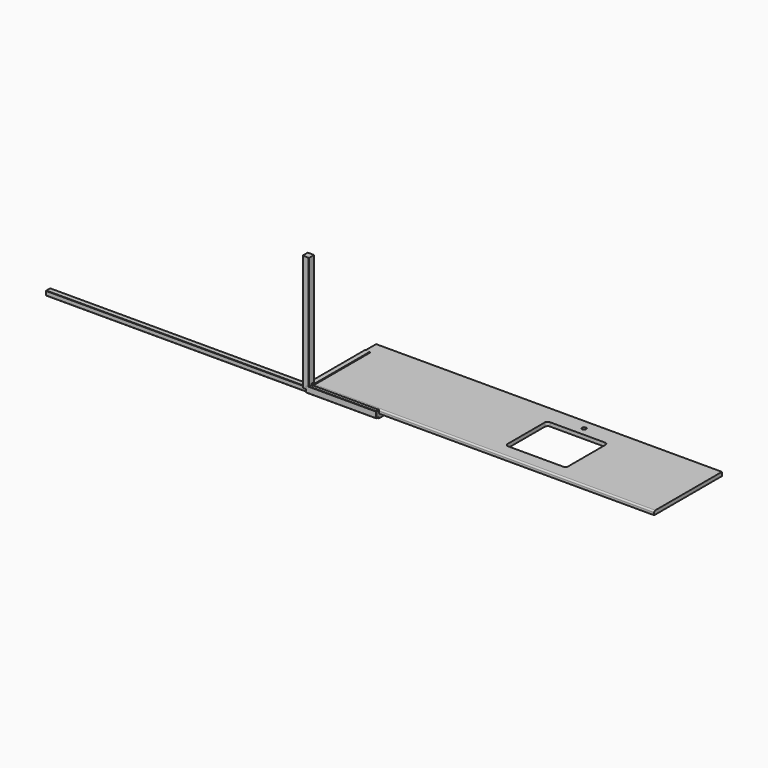
from build123d import *

# Parameters (mm, degrees)
F0_W      = 45
F0_H      = 45
F1_DEPTH  = 825
F2_W      = 45
F2_H      = 45
F3_DEPTH  = 500
F4_W      = 2450
F4_H      = 600
F5_DEPTH  = 27
F6_R      = 10
F7_SIZE   = 2
F8_SIZE   = 2
F9_SIZE   = 2
F10_W     = 38
F10_H     = 32
F11_DEPTH = 500
F12_SIZE  = 2
F14_D     = 9
F14_DEPTH = 30
F14_TIP   = 2.7038727856
F18_DEPTH = 49.501
F20_D     = 30
F21_W     = 38
F21_H     = 32
F22_DEPTH = 1860
F23_SIZE  = 2
F24_W     = 500
F24_H     = 500
F25_DEPTH = 30
F26_R     = 3
F27_T     = -1.5


with BuildPart() as f1:
    # F0 (on Top) → F1 (new body)
    with BuildSketch(Plane.XY):
        Rectangle(F0_W, F0_H)
    extrude(amount=F1_DEPTH)

    # F7
    f7_edges = [f1.edges().sort_by_distance(p)[0] for p in [
        (22.5, -22.5, 412.5),
        (22.5, 22.5, 412.5),
        (-22.5, -22.5, 412.5),
        (-22.5, 22.5, 412.5),
    ]]
    chamfer(f7_edges, length=F7_SIZE)

    # F14
    with Locations(Plane(origin=(0, 0, 0), x_dir=(1, 0, 0), z_dir=(0, 0, -1))):
        with Locations((0, 0)):
            Hole(F14_D / 2, depth=F14_DEPTH)
            with Locations((0, 0, -(F14_DEPTH + F14_TIP / 2))):  # 118° drill point
                Cone(0, F14_D / 2, F14_TIP, mode=Mode.SUBTRACT)


with BuildPart() as f3:
    # F2 (on Right) → F3 (new body)
    with BuildSketch(Plane.YZ):
        Rectangle(F2_W, F2_H)
    extrude(amount=F3_DEPTH)

    # F8
    f8_edges = [f3.edges().sort_by_distance(p)[0] for p in [
        (250, -22.5, 22.5),
        (250, 22.5, 22.5),
        (250, -22.5, -22.5),
        (250, 22.5, -22.5),
    ]]
    chamfer(f8_edges, length=F8_SIZE)

    # F9 (call 1 of 8: OpenCascade refuses the feature's edges together)
    f9_edges = [f3.edges().sort_by_distance(p)[0] for p in [
        (500, -22.5, 0),
    ]]
    chamfer(f9_edges, length=F9_SIZE)

    # F9#2 (call 2 of 8)
    f9_2_edges = [f3.edges().sort_by_distance(p)[0] for p in [
        (500, 0, 22.5),
    ]]
    chamfer(f9_2_edges, length=F9_SIZE)

    # F9#3 (call 3 of 8)
    f9_3_edges = [f3.edges().sort_by_distance(p)[0] for p in [
        (500, 22.5, 0),
    ]]
    chamfer(f9_3_edges, length=F9_SIZE)

    # F9#4 (call 4 of 8)
    f9_4_edges = [f3.edges().sort_by_distance(p)[0] for p in [
        (500, 0, -22.5),
    ]]
    chamfer(f9_4_edges, length=F9_SIZE)

    # F9#5 (call 5 of 8)
    f9_5_edges = [f3.edges().sort_by_distance(p)[0] for p in [
        (0, 0, 22.5),
    ]]
    chamfer(f9_5_edges, length=F9_SIZE)

    # F9#6 (call 6 of 8)
    f9_6_edges = [f3.edges().sort_by_distance(p)[0] for p in [
        (0, 22.5, 0),
    ]]
    chamfer(f9_6_edges, length=F9_SIZE)

    # F9#7 (call 7 of 8)
    f9_7_edges = [f3.edges().sort_by_distance(p)[0] for p in [
        (0, 0, -22.5),
    ]]
    chamfer(f9_7_edges, length=F9_SIZE)

    # F9#8 (call 8 of 8)
    f9_8_edges = [f3.edges().sort_by_distance(p)[0] for p in [
        (0, -22.5, 0),
    ]]
    chamfer(f9_8_edges, length=F9_SIZE)


with BuildPart() as f5:
    # F4 (on Top) → F5 (new body)
    with BuildSketch(Plane.XY):
        with Locations((1225, 300)):
            Rectangle(F4_W, F4_H)
    extrude(amount=F5_DEPTH)

    # F6
    f6_edges = [f5.edges().sort_by_distance(p)[0] for p in [
        (1225, 0, 27),
    ]]
    fillet(f6_edges, radius=F6_R)

    # F17 (on face) → F18 (cut, through all)
    with BuildSketch(Plane.XY.offset(27)):
        with BuildLine():
            Line((1725, 470), (1335, 470))
            ThreePointArc((1335, 470), (1320.8578643763, 464.1421356237), (1315, 450))
            Line((1315, 450), (1315, 120))
            ThreePointArc((1315, 120), (1320.8578643763, 105.8578643763), (1335, 100))
            Line((1335, 100), (1725, 100))
            ThreePointArc((1725, 100), (1739.1421356237, 105.8578643763), (1745, 120))
            Line((1745, 120), (1745, 450))
            ThreePointArc((1745, 450), (1739.1421356237, 464.1421356237), (1725, 470))
        make_face()
    extrude(amount=-F18_DEPTH, mode=Mode.SUBTRACT)

    # F20 (through all)
    with Locations(Plane.XY.offset(27)):
        with Locations((1530, 529.3779373169)):
            Hole(F20_D / 2)


with BuildPart() as f11:
    # F10 (on Front) → F11 (new body)
    with BuildSketch(Plane.XZ):
        with Locations((19, 16)):
            Rectangle(F10_W, F10_H)
    extrude(amount=-F11_DEPTH)

    # F12
    f12_edges = [f11.edges().sort_by_distance(p)[0] for p in [
        (0, 250, 32),
        (38, 250, 32),
        (0, 250, 0),
        (38, 250, 0),
    ]]
    chamfer(f12_edges, length=F12_SIZE)


with BuildPart() as f16:
    # F15 (on Front) → F16 (revolve)
    with BuildSketch(Plane.XZ):
        Polygon((4, 45), (0, 45), (0, 0), (20, 0), (20, 3.4055154375), (4, 10), align=None)
    revolve(axis=Axis((0, 0, 22.5), (0, 0, 1)))


with BuildPart() as f22:
    # F21 (on Right) → F22 (new body)
    with BuildSketch(Plane.YZ):
        with Locations((19, -16)):
            Rectangle(F21_W, F21_H)
    extrude(amount=-F22_DEPTH)

    # F23
    f23_edges = [f22.edges().sort_by_distance(p)[0] for p in [
        (-930, 0, 0),
        (-930, 38, 0),
        (0, 38, -16),
        (0, 19, -32),
        (0, 19, 0),
        (0, 0, -16),
        (-930, 0, -32),
        (-930, 38, -32),
        (-1860, 0, -16),
        (-1860, 19, -32),
        (-1860, 19, 0),
        (-1860, 38, -16),
    ]]
    chamfer(f23_edges, length=F23_SIZE)


with BuildPart() as f25:
    # F24 (on Top) → F25 (new body)
    with BuildSketch(Plane.XY):
        with Locations((250, 250)):
            Rectangle(F24_W, F24_H)
    extrude(amount=-F25_DEPTH)

    # F26
    f26_edges = [f25.edges().sort_by_distance(p)[0] for p in [
        (250, 0, 0),
        (500, 250, 0),
        (250, 500, 0),
        (0, 250, 0),
    ]]
    fillet(f26_edges, radius=F26_R)

    # F27
    f27_openings = [f25.faces().sort_by_distance(p)[0] for p in [
        (250, 250, -30),
    ]]
    offset(amount=F27_T, openings=f27_openings)


solid = Compound([f1.part, f3.part, f5.part, f11.part, f16.part, f22.part, f25.part])
